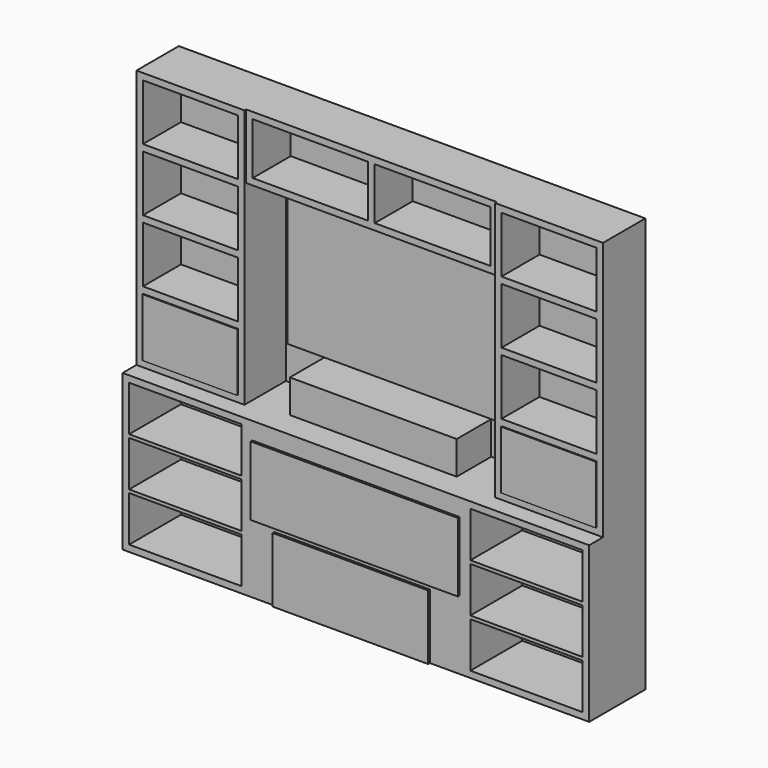
from build123d import *

# Parameters (mm, degrees)
F0_W      = 2743.2
F0_H      = 2438.4
F1_DEPTH  = 6.35
F2_W      = 2743.2
F2_H      = 914.4
F3_DEPTH  = 406.4
F4_W      = 635
F4_H      = 1524
F5_DEPTH  = 304.8
F6_W      = 1473.2
F6_H      = 381
F7_DEPTH  = 292.1
F8_W      = 558.8
F8_H      = 330.2
F9_DEPTH  = 279.4
F10_W     = 679.45
F10_H     = 304.8
F11_DEPTH = 279.4
F12_W     = 1371.6
F12_H     = 863.6
F13_DEPTH = 50.8
F14_W     = 558.8
F14_H     = 342.9
F15_DEPTH = 5.08
F17_W     = 981.039941
F17_H     = 194.889765
F18_DEPTH = 254
F16_W     = 1219.2
F16_H     = 406.4
F19_DEPTH = 12.7
F20_W     = 914.4
F20_H     = 381
F21_DEPTH = 12.7
F22_W     = 660.4
F22_H     = 266.7
F23_DEPTH = 381


with BuildPart() as f1:
    # F0 (on Front) → F1 (new body)
    with BuildSketch(Plane.XZ):
        with Locations((1371.6, 1219.2)):
            Rectangle(F0_W, F0_H)
    extrude(amount=F1_DEPTH)

    # F2 (on face) → F3 (join)
    with BuildSketch(Plane.XZ.offset(6.35)):
        with Locations((1371.6, 457.2)):
            Rectangle(F2_W, F2_H)
    extrude(amount=F3_DEPTH)

    # F4 (on face) → F5 (join)
    with BuildSketch(Plane.XZ.offset(6.35)):
        with Locations((317.5, 1676.4)):
            Rectangle(F4_W, F4_H)
        with Locations((2425.7, 1676.4)):
            Rectangle(F4_W, F4_H)
    extrude(amount=F5_DEPTH)

    # F6 (on face) → F7 (join)
    with BuildSketch(Plane.XZ.offset(6.35)):
        with Locations((1371.6, 2247.9)):
            Rectangle(F6_W, F6_H)
    extrude(amount=F7_DEPTH)

    # F8 (on face) → F9 (cut)
    with BuildSketch(Plane.XZ.offset(311.15)):
        with Locations((317.5, 2235.2)):
            Rectangle(F8_W, F8_H)
        with Locations((317.5, 1866.9)):
            Rectangle(F8_W, F8_H)
        with Locations((317.5, 1498.6)):
            Rectangle(F8_W, F8_H)
        with Locations((2425.7, 1866.9)):
            Rectangle(F8_W, F8_H)
        with Locations((2425.7, 2235.2)):
            Rectangle(F8_W, F8_H)
        with Locations((2425.7, 1498.6)):
            Rectangle(F8_W, F8_H)
    extrude(amount=-F9_DEPTH, mode=Mode.SUBTRACT)

    # F10 (on face) → F11 (cut)
    with BuildSketch(Plane.XZ.offset(298.45)):
        with Locations((1012.825, 2247.9)):
            Rectangle(F10_W, F10_H)
        with Locations((1730.375, 2247.9)):
            Rectangle(F10_W, F10_H)
    extrude(amount=-F11_DEPTH, mode=Mode.SUBTRACT)

    # F22 (on face) → F23 (cut)
    with BuildSketch(Plane.XZ.offset(412.75)):
        with Locations((368.3, 171.45)):
            Rectangle(F22_W, F22_H)
        with Locations((368.3, 742.95)):
            Rectangle(F22_W, F22_H)
        with Locations((2374.9, 742.95)):
            Rectangle(F22_W, F22_H)
        with Locations((2374.9, 171.45)):
            Rectangle(F22_W, F22_H)
        with Locations((2374.9, 457.2)):
            Rectangle(F22_W, F22_H)
        with Locations((368.3, 457.2)):
            Rectangle(F22_W, F22_H)
    extrude(amount=-F23_DEPTH, mode=Mode.SUBTRACT)


with BuildPart() as f13:
    # F12 (on face) → F13 (new body)
    with BuildSketch(Plane.XZ.offset(6.35)):
        with Locations((1371.6, 1574.8)):
            Rectangle(F12_W, F12_H)
    extrude(amount=F13_DEPTH)


with BuildPart() as f15:
    # F14 (on face) → F15 (new body)
    with BuildSketch(Plane.XZ.offset(311.15)):
        with Locations((317.5, 1123.95)):
            Rectangle(F14_W, F14_H)
        with Locations((2425.7, 1123.95)):
            Rectangle(F14_W, F14_H)
    extrude(amount=F15_DEPTH)


with BuildPart() as f18:
    # F17 (on face) → F18 (new body)
    with BuildSketch(Plane.XZ.offset(6.35)):
        with Locations((1351.615458, 1011.844883)):
            Rectangle(F17_W, F17_H)
    extrude(amount=F18_DEPTH)


with BuildPart() as f19:
    # F16 (on face) → F19 (new body)
    with BuildSketch(Plane.XZ.offset(412.75)):
        with Locations((1371.6, 609.6)):
            Rectangle(F16_W, F16_H)
    extrude(amount=F19_DEPTH)


with BuildPart() as f21:
    # F20 (on face) → F21 (new body)
    with BuildSketch(Plane.XZ.offset(412.75)):
        with Locations((1349.573085, 190.5)):
            Rectangle(F20_W, F20_H)
    extrude(amount=F21_DEPTH)


solid = Compound([f1.part, f13.part, f15.part, f18.part, f19.part, f21.part])
